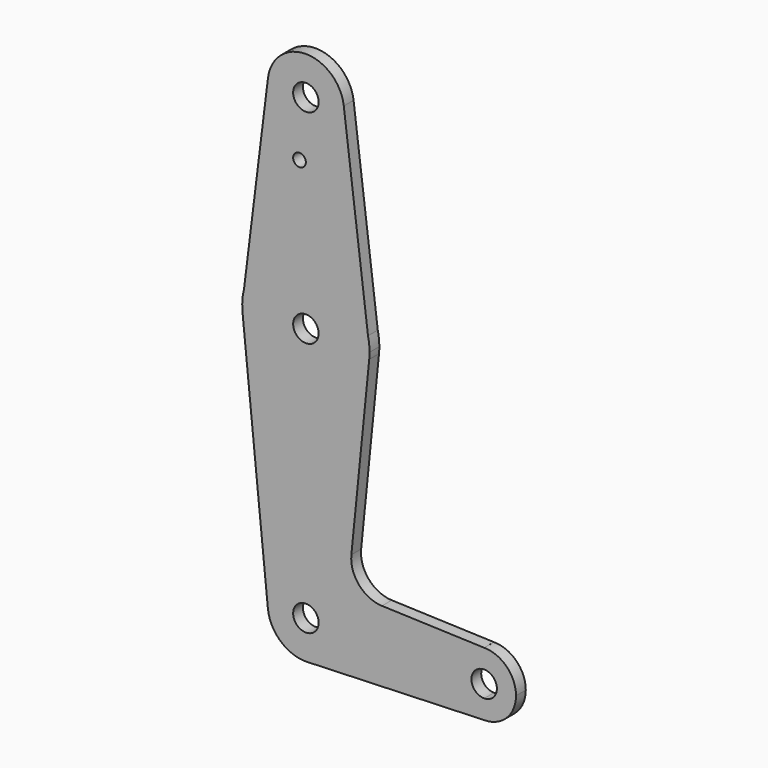
from build123d import *

# Parameters (mm, degrees)
F0_R     = 3.175
F0_R_2   = 1.5875
F1_DEPTH = 3.048


with BuildPart() as f1:
    # F0 (on Front) → F1 (new body)
    with BuildSketch(Plane.XZ):
        with BuildLine():
            ThreePointArc((-53.9029029886, 45.2910100308), (-45.0359710036, 34.6143291425), (-34.925, 44.1212878035))
            ThreePointArc((-34.925, 44.1212878035), (-34.9432464786, 44.7105776156), (-34.9979160069, 45.2976096925))
            ThreePointArc((-34.9979160069, 45.2976096925), (-44.4533251424, 53.6462872231), (-53.9029029886, 45.2910100308))
        make_face()
        with Locations((-44.45, 44.1212878035)):
            Circle(F0_R, mode=Mode.SUBTRACT)
        with BuildLine():
            ThreePointArc((-34.9979160069, 45.2976096925), (-34.9432464786, 44.7105776156), (-34.925, 44.1212878035))
            ThreePointArc((-34.925, 44.1212878035), (-45.0359710036, 34.6143291425), (-53.9029029886, 45.2910100308))
            Line((-53.9029029886, 45.2910100308), (-59.8635646665, -2.8790215153))
            ThreePointArc((-59.8635646665, -2.8790215153), (-44.292760045, 9.1955090631), (-28.9641924184, -3.1850910744))
            Line((-28.9641924184, -3.1850910744), (-34.9979160069, 45.2976096925))
        make_face()
        with Locations((-46.0375, 29.8464878035)):
            Circle(F0_R_2, mode=Mode.SUBTRACT)
        with BuildLine():
            ThreePointArc((-28.575, -6.6787121965), (-28.672598117, -4.921095964), (-28.9641924184, -3.1850910744))
            ThreePointArc((-28.9641924184, -3.1850910744), (-44.292760045, 9.1955090631), (-59.8635646665, -2.8790215153))
            ThreePointArc((-59.8635646665, -2.8790215153), (-60.2852683483, -5.5562589285), (-60.2454255641, -8.2662121965))
            ThreePointArc((-60.2454255641, -8.2662121965), (-44.45, -22.5537121965), (-28.6545744359, -8.2662121965))
            ThreePointArc((-28.6545744359, -8.2662121965), (-28.5949060894, -7.4734587505), (-28.575, -6.6787121965))
        make_face()
        with Locations((-44.45, -6.6787121965)):
            Circle(F0_R, mode=Mode.SUBTRACT)
        with BuildLine():
            ThreePointArc((-28.6545744359, -8.2662121965), (-44.45, -22.5537121965), (-60.2454255641, -8.2662121965))
            Line((-60.2454255641, -8.2662121965), (-53.9272553384, -71.1312121965))
            ThreePointArc((-53.9272553384, -71.1312121965), (-44.9268479324, -60.6656558501), (-34.925, -70.1787121965))
            ThreePointArc((-34.925, -70.1787121965), (-37.5952123318, -76.7921463289), (-44.1087293489, -79.6975965504))
            Line((-44.1087293489, -79.6975965504), (0, -78.1162121965))
            ThreePointArc((0, -78.1162121965), (-7.9375, -70.1787121965), (0, -62.2412121965))
            Line((0, -62.2412121965), (0, -62.2361836274))
            Line((0, -62.2361836274), (-25.481672132, -61.3290066159))
            ThreePointArc((-25.481672132, -61.3290066159), (-31.1887960175, -58.6112493006), (-33.1091641315, -52.5888200419))
            Line((-33.1091641315, -52.5888200419), (-28.6545744359, -8.2662121965))
        make_face()
        with BuildLine():
            ThreePointArc((-34.925, -70.1787121965), (-44.9268479324, -60.6656558501), (-53.9272553384, -71.1312121965))
            ThreePointArc((-53.9272553384, -71.1312121965), (-50.7119716764, -77.3559913274), (-44.1087293489, -79.6975965504))
            ThreePointArc((-44.1087293489, -79.6975965504), (-37.5952123318, -76.7921463289), (-34.925, -70.1787121965))
        make_face()
        with Locations((-44.45, -70.1787121965)):
            Circle(F0_R, mode=Mode.SUBTRACT)
        with BuildLine():
            Line((0, -73.3537121965), (0, -78.1162121965))
            ThreePointArc((0, -78.1162121965), (5.6126600757, -75.7913722721), (7.9375, -70.1787121965))
            ThreePointArc((7.9375, -70.1787121965), (5.6126600757, -64.5660521208), (0, -62.2412121965))
            Line((0, -62.2412121965), (0, -67.0037121965))
            ThreePointArc((0, -67.0037121965), (2.2450640303, -67.9336481662), (3.175, -70.1787121965))
            ThreePointArc((3.175, -70.1787121965), (2.2450640303, -72.4237762267), (0, -73.3537121965))
        make_face()
        with BuildLine():
            ThreePointArc((0, -62.2412121965), (-7.9375, -70.1787121965), (0, -78.1162121965))
            Line((0, -78.1162121965), (0, -73.3537121965))
            ThreePointArc((0, -73.3537121965), (-3.175, -70.1787121965), (0, -67.0037121965))
            Line((0, -67.0037121965), (0, -62.2412121965))
        make_face()
    extrude(amount=F1_DEPTH)


solid = f1.part
